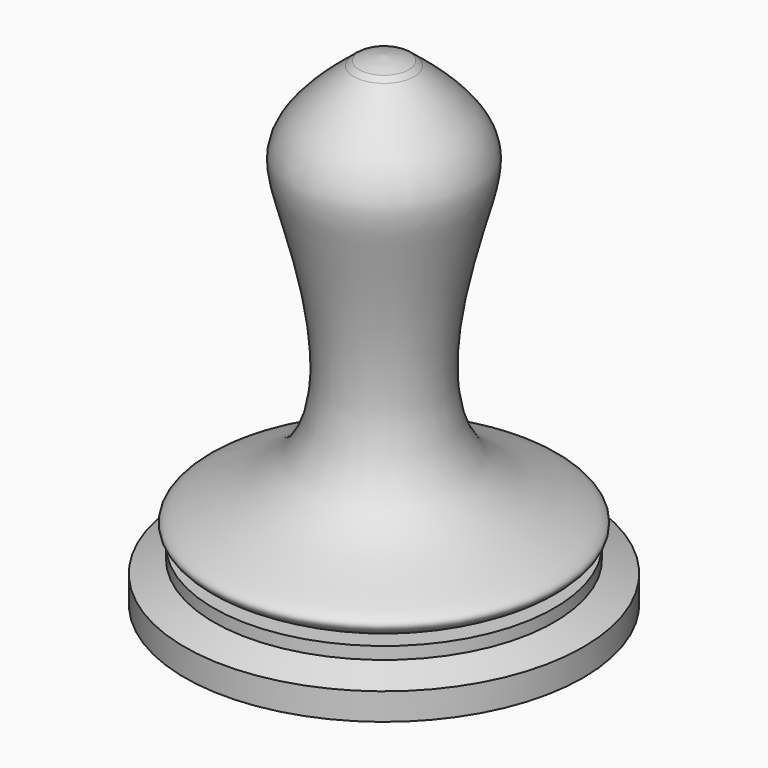
from build123d import *


with BuildPart() as f2:
    # F0 (on Front) → F2 (revolve)
    with BuildSketch(Plane.XZ):
        with BuildLine():
            Line((-63.5, -76.3213481848), (0, -76.3213481848))
            Line((0, -76.3213481848), (0, 74.756179786))
            Line((0, 74.756179786), (0, 76.0724103248))
            Line((0, 76.0724103248), (0, 77.7973234653))
            add(Edge.make_bspline(
                [(-7.8825740805, 76.0724103248), (-6.805113539, 76.6202139713), (-3.6514500952, 77.3486944949), (-1.1890011989, 77.6512389319), (0, 77.7973234653)],
                knots=[0.2697563285, 0.2697563285, 0.2697563285, 0.2697563285, 0.6473995451, 1, 1, 1, 1], degree=3))
            add(Edge.make_bspline(
                [(-9.6267255377, 74.7239187741), (-9.0462905127, 75.1779685937), (-8.4643000681, 75.6276208411), (-7.8825740805, 76.0724103248)],
                knots=[0.9867238809, 0.9867238809, 0.9867238809, 0.9867238809, 1, 1, 1, 1], degree=3))
            add(Edge.make_bspline(
                [(-47.5135579507, -59.8396037567), (-52.4603729508, -57.3766654265), (-65.0810376506, -50.6912962323), (-6.8127982596, -41.1550935107), (-25.0663563597, 32.1280156358), (-32.6368414694, 54.6504563179), (-17.5948764129, 68.4907706851), (-9.6267255377, 74.7239187741)],
                knots=[0, 0, 0, 0, 0.1193859203, 0.3379959093, 0.6295333791, 0.8044707171, 0.9867238809, 0.9867238809, 0.9867238809, 0.9867238809], degree=3))
            Line((-47.5135579507, -59.8396037567), (-54.2554333806, -59.8396037567))
            Line((-54.2554333806, -59.8396037567), (-54.2554333806, -63.7577995658))
            Line((-54.2554333806, -63.7577995658), (-63.5, -67.7426531911))
            Line((-63.5, -67.7426531911), (-63.5, -76.3213481848))
        make_face()
        with BuildLine():
            add(Edge.make_bspline(
                [(-9.6267255377, 74.7239187741), (-9.0462905127, 75.1779685937), (-8.4643000681, 75.6276208411), (-7.8825740805, 76.0724103248)],
                knots=[0.9867238809, 0.9867238809, 0.9867238809, 0.9867238809, 1, 1, 1, 1], degree=3))
            add(Edge.make_bspline(
                [(-9.6267255377, 74.7239187741), (-9.1394730853, 75.2025122858), (-8.6522206329, 75.6811057974), (-7.8825740805, 76.0724103248)],
                knots=[0, 0, 0, 0, 0.2697563285, 0.2697563285, 0.2697563285, 0.2697563285], degree=3))
        make_face()
    revolve(axis=Axis((0, 0, -0.7293783128), (0, 0, -1)))


solid = f2.part
